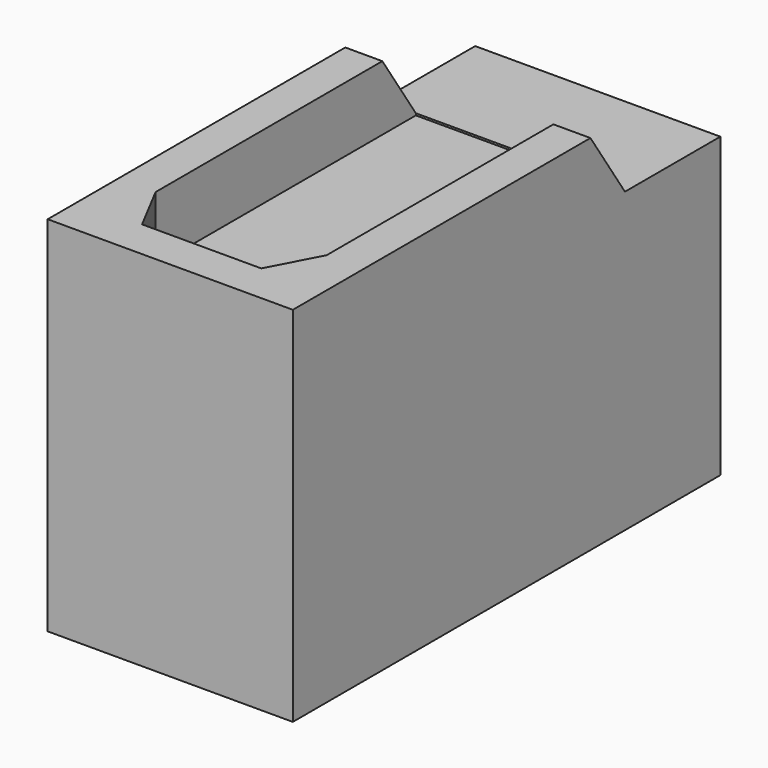
from build123d import *

# Parameters (mm, degrees)
F0_W     = 23.65
F0_H     = 51.55
F1_DEPTH = 35
F3_DEPTH = 23.651
F5_DEPTH = 6.25
F6_W     = 16.5
F6_H     = 4.038704
F7_DEPTH = 6.25


with BuildPart() as f1:
    # F0 (on Top) → F1 (new body)
    with BuildSketch(Plane.XY):
        with Locations((0.764201, -25.775)):
            Rectangle(F0_W, F0_H)
    extrude(amount=F1_DEPTH)

    # F2 (on face) → F3 (cut, through all)
    with BuildSketch(Plane.YZ.offset(12.589201)):
        Polygon((0, 28.75), (0, 35), (-15.663622, 35), (-11.5, 28.75), align=None)
    extrude(amount=-F3_DEPTH, mode=Mode.SUBTRACT)

    # F4 (on face) → F5 (cut)
    with BuildSketch(Plane.XY.offset(35)):
        Polygon((-4.985799, -47.763622), (0.764201, -47.763622), (6.514201, -47.763622), (9.014201, -43.008048), (9.014201, -15.663622), (0.764201, -15.663622), (-7.485799, -15.663622), (-7.485799, -43.008048), align=None)
    extrude(amount=-F5_DEPTH, mode=Mode.SUBTRACT)

    # F6 (on face) → F7 (cut)
    with BuildSketch(Plane.XY.offset(35)):
        with Locations((0.764201, -13.64427)):
            Rectangle(F6_W, F6_H)
    extrude(amount=-F7_DEPTH, mode=Mode.SUBTRACT)


solid = f1.part
